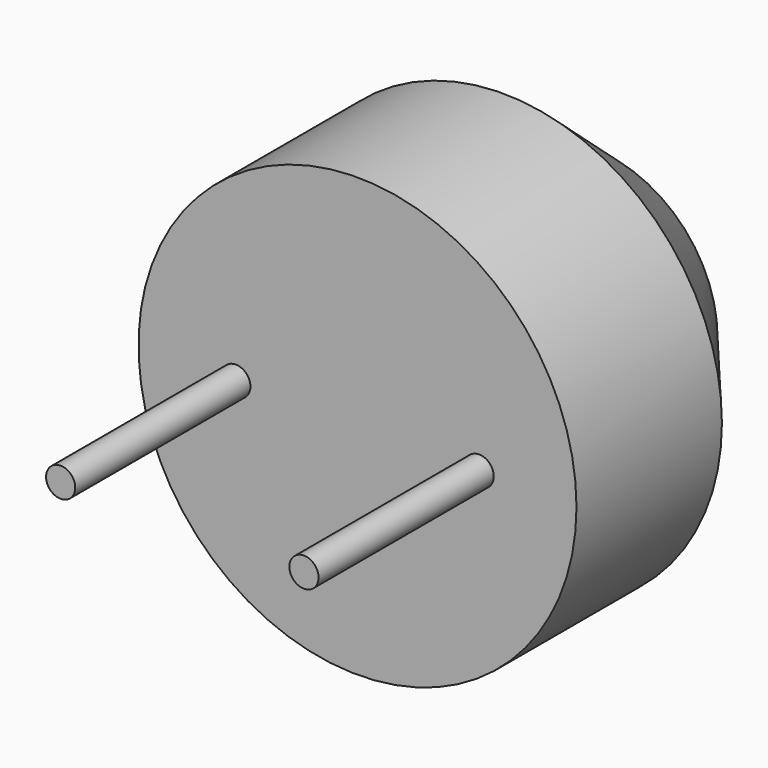
from build123d import *

# Parameters (mm, degrees)
F0_R     = 9
F1_DEPTH = 12
F2_SIZE2 = 4.5286636519
F2_SIZE  = 3.8
F3_R     = 0.6
F4_DEPTH = 9


with BuildPart() as f1:
    # F0 (on Front) → F1 (new body)
    with BuildSketch(Plane.XZ):
        Circle(F0_R)
    extrude(amount=F1_DEPTH)

    # F2
    f2_edges = [f1.edges().sort_by_distance(p)[0] for p in [
        (-9, 0, 0),
    ]]
    f2_side = f1.faces().sort_by_distance((0, 0, 0))[0]
    chamfer(f2_edges, length=F2_SIZE, length2=F2_SIZE2, reference=f2_side)

    # F3 (on face) → F4 (join)
    with BuildSketch(Plane.XZ.offset(12)):
        with Locations((-5, 0)):
            Circle(F3_R)
        with Locations((5, 0)):
            Circle(F3_R)
    extrude(amount=F4_DEPTH)


solid = f1.part
